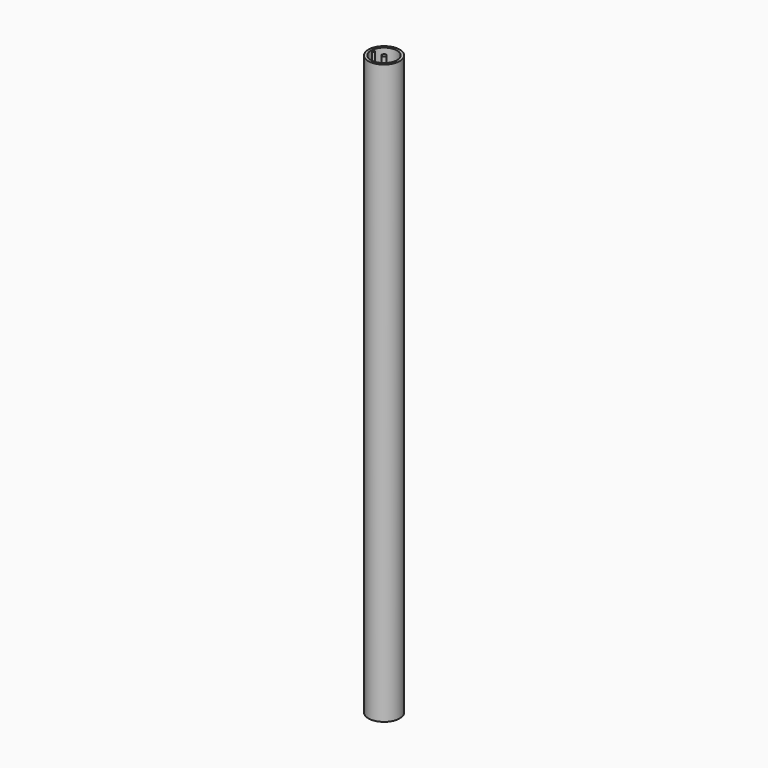
from build123d import *

# Parameters (mm, degrees)
F0_R     = 30
F0_R_2   = 25
F1_DEPTH = 1100
F2_R     = 30
F3_DEPTH = 8
F4_R     = 4
F4_R_2   = 2
F5_DEPTH = 1108


with BuildPart() as f1:
    # F0 (on Top) → F1 (new body)
    with BuildSketch(Plane.XY):
        Circle(F0_R)
        Circle(F0_R_2, mode=Mode.SUBTRACT)
    extrude(amount=F1_DEPTH)

    # F2 (on face) → F3 (join)
    with BuildSketch(Plane(origin=(0, 0, 0), x_dir=(1, 0, 0), z_dir=(0, 0, -1))):
        Circle(F2_R)
    extrude(amount=F3_DEPTH)

    # F4 (on face) → F5 (join)
    with BuildSketch(Plane(origin=(0, 0, -8), x_dir=(1, 0, 0), z_dir=(0, 0, -1))):
        Circle(F4_R)
        with Locations((-20, 0)):
            Circle(F4_R_2)
    extrude(amount=-F5_DEPTH)


solid = f1.part
